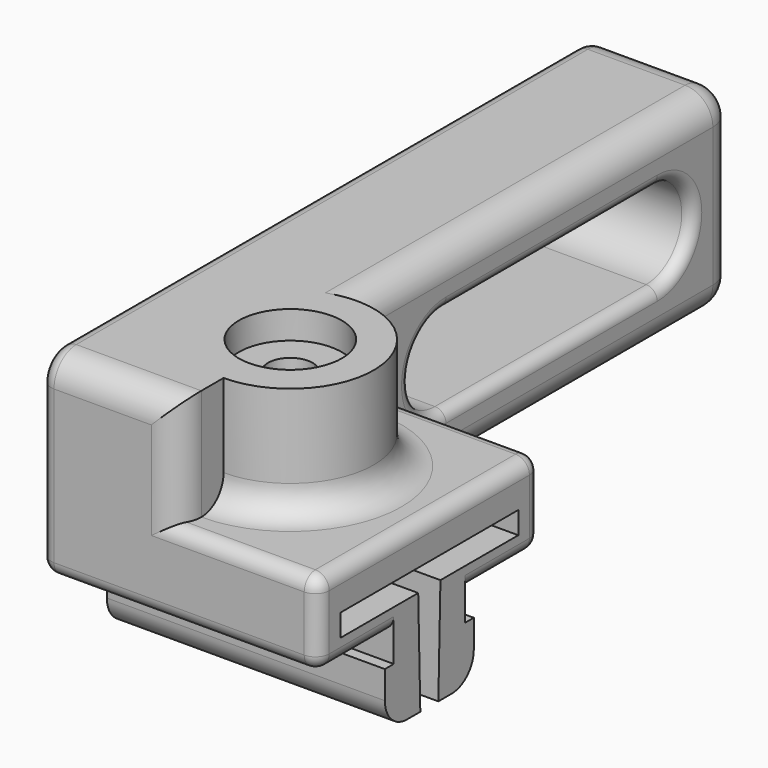
from build123d import *

# Parameters (mm, degrees)
PAD020_DEPTH        = 5
SKETCH037_R         = 3
PAD021_DEPTH        = 4
FILLET013_R         = 1
SKETCH038_W         = 7
SKETCH038_H         = 5
PAD022_DEPTH        = 25
HOLE006_D           = 1.6
HOLE006_CBORE_D     = 3.7
HOLE006_CBORE_DEPTH = 1
POCKET016_DEPTH     = 5.001
POCKET017_DEPTH     = 10.001
FILLET014_R         = 1
FILLET015_R         = 0.5
FILLET017_R         = 0.4
FILLET016_R         = 1


with BuildPart() as part:
    # Sketch035 → Pad020 (new body, symmetric)
    with BuildSketch(Plane.YZ):
        Polygon((-5, 7.5), (-5, 10.5), (5, 10.5), (5, 7.5), (1.6, 7.5), (1.6, 6.5), (2, 6.5), (2, 4.5), (-2, 4.5), (-2, 6.5), (-1.6, 6.5), (-1.6, 7.5), align=None)
    extrude(amount=PAD020_DEPTH, both=True)

    # Sketch037 → Pad021 (join)
    with BuildSketch(Plane(origin=(0, 0, 10.5), x_dir=(0, -1, 0), z_dir=(0, 0, 1))):
        Circle(SKETCH037_R)
    extrude(amount=PAD021_DEPTH)

    # Fillet013
    fillet013_edges = [part.edges().sort_by_distance(p)[0] for p in [
        (0, 3, 10.5),
    ]]
    fillet(fillet013_edges, radius=FILLET013_R)

    # Sketch038 (on DatumPlane) → Pad022 (join)
    with BuildSketch(Plane(origin=(0, -5, 0), x_dir=(0, 0, -1), z_dir=(0, -1, 0))):
        with Locations((-11, -2.5)):
            Rectangle(SKETCH038_W, SKETCH038_H)
    extrude(amount=-PAD022_DEPTH)

    # Hole006 (through all)
    with Locations(Plane(origin=(0, 0, 14.5), x_dir=(0, -1, 0), z_dir=(0, 0, 1))):
        with Locations((0, 0)):
            CounterBoreHole(HOLE006_D / 2, HOLE006_CBORE_D / 2, HOLE006_CBORE_DEPTH)

    # Sketch040 (on DatumPlane) → Pocket016 (cut, through all)
    with BuildSketch(Plane.YZ):
        with BuildLine():
            ThreePointArc((16.5, 9.4), (18.1, 11), (16.5, 12.6))
            Line((7, 12.6), (16.5, 12.6))
            ThreePointArc((7, 12.6), (5.4, 11), (7, 9.4))
            Line((7, 9.4), (16.5, 9.4))
        make_face()
    extrude(amount=-POCKET016_DEPTH, mode=Mode.SUBTRACT)

    # Sketch036 → Pocket017 (cut, through all)
    with BuildSketch(Plane.YZ.offset(5)):
        Polygon((0.5, 8.3), (0.4, 4.3), (-0.4, 4.3), (-0.5, 8.3), (-4, 8.3), (-4, 9.1), (4, 9.1), (4, 8.3), align=None)
    extrude(amount=-POCKET017_DEPTH, mode=Mode.SUBTRACT)

    # Fillet014
    fillet014_edges = [part.edges().sort_by_distance(p)[0] for p in [
        (-2.5, -5, 14.5),
        (0, -5, 12.5),
        (0, 11.5, 14.5),
        (-2.5, 20, 14.5),
        (0, 20, 11),
        (-2.5, 20, 7.5),
        (0, 12.5, 7.5),
    ]]
    fillet(fillet014_edges, radius=FILLET014_R)

    # Fillet015
    fillet015_edges = [part.edges().sort_by_distance(p)[0] for p in [
        (-5, -3.3, 7.5),
        (-5, -5, 10.5),
        (-5, 10.3, 7.5),
        (-5, 7.5, 14.5),
        (-5, -4.707107, 14.207107),
        (-5, 19.707107, 7.792893),
        (-5, 20, 11),
        (-5, 19.707107, 14.207107),
        (5, -3.3, 7.5),
        (5, -5, 9),
        (5, 0, 10.5),
        (5, 5, 9),
        (5, 3.3, 7.5),
        (2.5, 5, 7.5),
        (-0.5, 5, 7.5),
        (2.5, -5, 10.5),
        (-0.5, -5, 10.5),
        (0, -5, 7.5),
        (2.5, 5, 10.5),
    ]]
    fillet(fillet015_edges, radius=FILLET015_R)

    # Fillet017
    fillet017_edges = [part.edges().sort_by_distance(p)[0] for p in [
        (0, 11.75, 12.6),
        (0, 5.4, 11),
        (0, 11.75, 9.4),
        (0, 18.1, 11),
    ]]
    fillet(fillet017_edges, radius=FILLET017_R)

    # Fillet016
    fillet016_edges = [part.edges().sort_by_distance(p)[0] for p in [
        (0, 2, 4.5),
        (0, -2, 4.5),
    ]]
    fillet(fillet016_edges, radius=FILLET016_R)


with BuildPart() as part_1:
    # Body005 placement: moved
    add(part.part.moved(Location((37.45, 0, 0))))


solid = part_1.part
